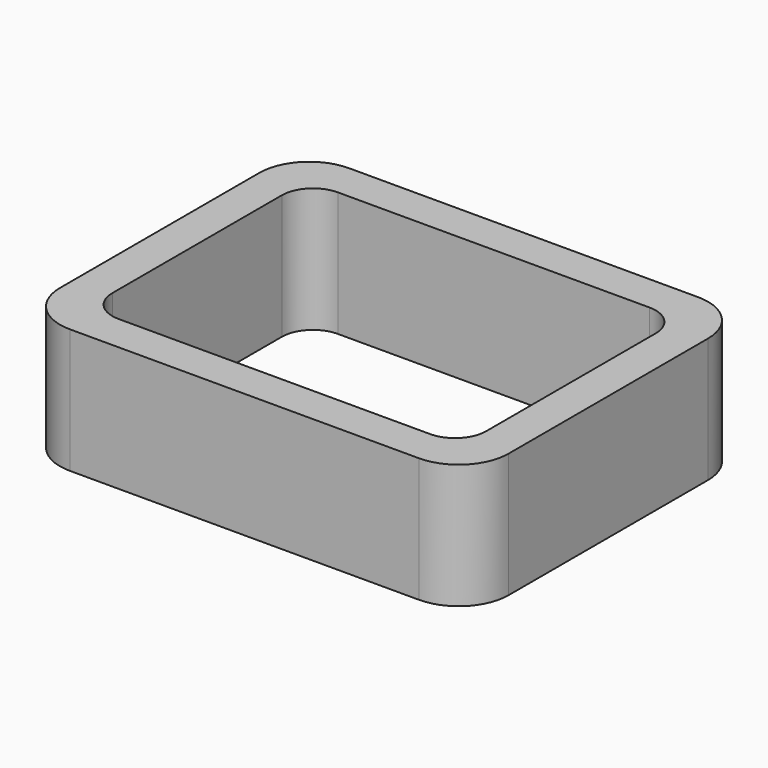
from build123d import *

# Parameters (mm, degrees)
F0_W     = 36
F0_H     = 28
F1_DEPTH = 10
F2_T     = -3
F3_R     = 2.5
F4_R     = 4


with BuildPart() as f1:
    # F0 (on Top) → F1 (new body)
    with BuildSketch(Plane.XY):
        Rectangle(F0_W, F0_H)
    extrude(amount=F1_DEPTH)

    # F2
    f2_openings = [f1.faces().sort_by_distance(p)[0] for p in [
        (0, 0, 10),
        (0, 0, 0),
    ]]
    offset(amount=F2_T, openings=f2_openings)

    # F3
    f3_edges = [f1.edges().sort_by_distance(p)[0] for p in [
        (-15, 11, 5),
        (15, 11, 5),
        (-15, -11, 5),
        (15, -11, 5),
    ]]
    fillet(f3_edges, radius=F3_R)

    # F4
    f4_edges = [f1.edges().sort_by_distance(p)[0] for p in [
        (-18, 14, 5),
        (18, 14, 5),
        (-18, -14, 5),
        (18, -14, 5),
    ]]
    fillet(f4_edges, radius=F4_R)


solid = f1.part
